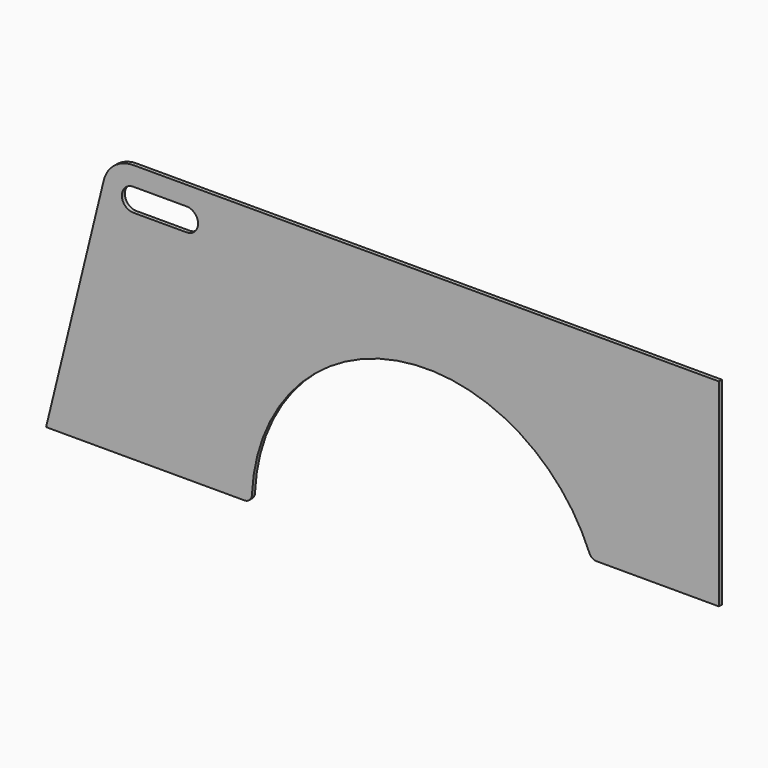
from build123d import *

# Parameters (mm, degrees)
F1_DEPTH = 6.35


with BuildPart() as f1:
    # F0 (on Front) → F1 (new body)
    with BuildSketch(Plane.XZ):
        with BuildLine():
            Line((96.028596, 393.056471), (0, 0))
            Line((0, 0), (330.464698, 0))
            ThreePointArc((330.464698, 0), (339.255875, 3.534564), (343.153669, 12.170833))
            ThreePointArc((343.153669, 12.170833), (585.190634, 287.821884), (905.783947, 109.5375))
            ThreePointArc((905.783947, 109.5375), (910.457647, 103.769716), (917.557162, 101.6))
            Line((917.557162, 101.6), (1121.494123, 101.6))
            Line((1121.494123, 101.6), (1121.494123, 431.8))
            Line((1121.494123, 431.8), (145.377167, 431.8))
            ThreePointArc((145.377167, 431.8), (114.007028, 420.956906), (96.028596, 393.056471))
        make_face()
        with BuildLine():
            ThreePointArc((145.377167, 361.95), (126.327167, 381), (145.377167, 400.05))
            Line((145.377167, 400.05), (234.277167, 400.05))
            ThreePointArc((234.277167, 400.05), (253.327167, 381), (234.277167, 361.95))
            Line((234.277167, 361.95), (145.377167, 361.95))
        make_face(mode=Mode.SUBTRACT)
    extrude(amount=F1_DEPTH)


solid = f1.part
